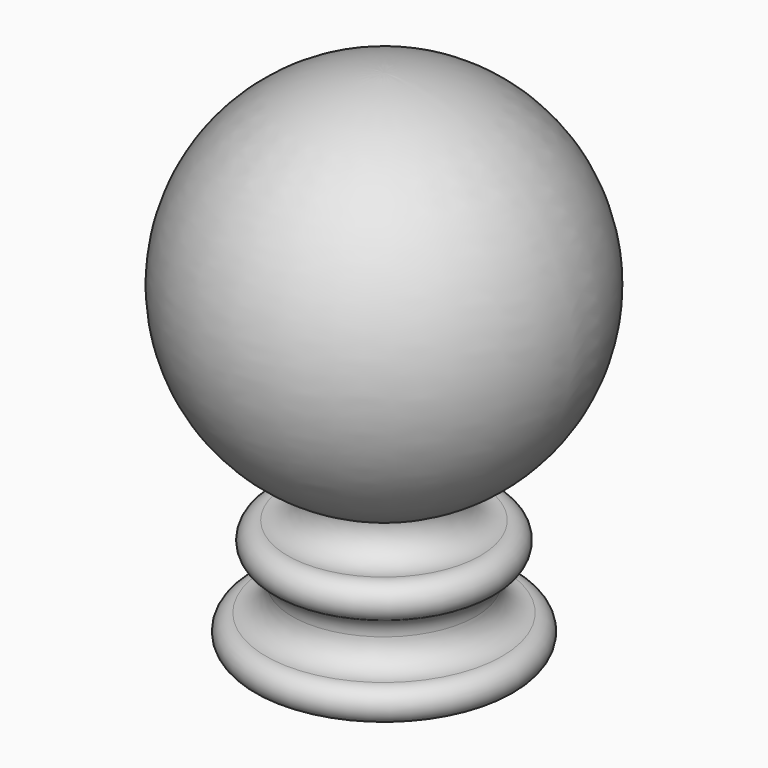
from build123d import *


with BuildPart() as f1:
    # F0 (on Front) → F1 (revolve)
    with BuildSketch(Plane.XZ):
        with BuildLine():
            Line((0, 27.5), (0, -27.5))
            ThreePointArc((0, -27.5), (4.964715, -27.048135), (9.766275, -25.70739))
            ThreePointArc((9.766275, -25.70739), (27.048135, 4.964715), (0, 27.5))
        make_face()
        with BuildLine():
            ThreePointArc((9.766275, -25.70739), (4.964715, -27.048135), (0, -27.5))
            Line((0, -27.5), (0, -47.5))
            Line((0, -47.5), (17.443549, -47.5))
            ThreePointArc((17.443549, -47.5), (19.854838, -45.088711), (17.443549, -42.677421))
            ThreePointArc((17.443549, -42.677421), (14.689254, -41.536555), (13.548387, -38.782261))
            ThreePointArc((13.548387, -38.782261), (14.098988, -36.879371), (15.580646, -35.564516))
            ThreePointArc((15.580646, -35.564516), (16.962787, -32.540715), (14.225806, -30.653225))
            ThreePointArc((14.225806, -30.653225), (10.753497, -29.300677), (9.766275, -25.70739))
        make_face()
    revolve(axis=Axis((0, 0, 0), (0, 0, -1)))


solid = f1.part
